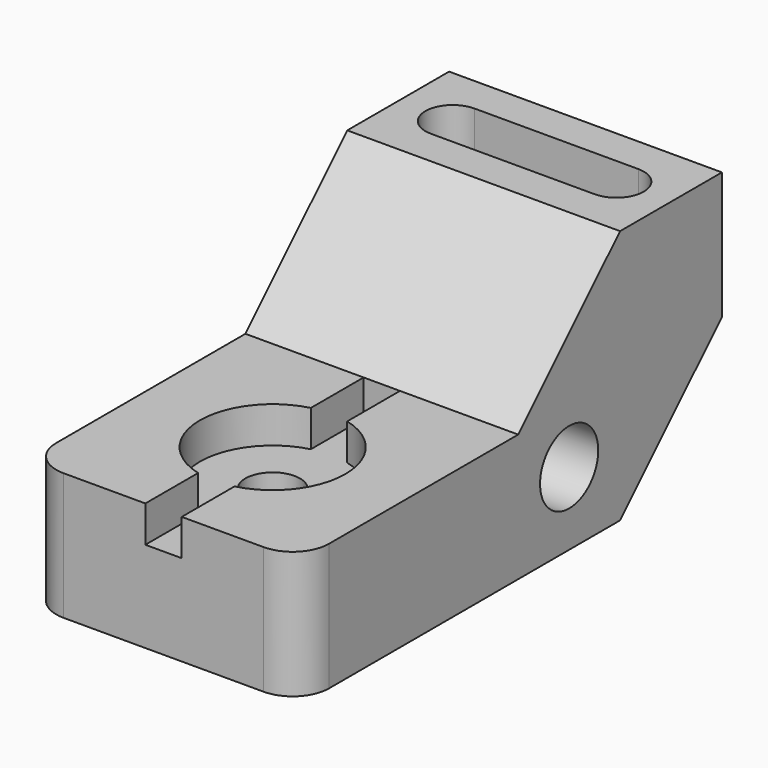
from build123d import *

# Parameters (mm, degrees)
F1_DEPTH       = 76.2
F2_R           = 10.16
F3_R           = 10.16
F4_DEPTH       = 76.201
F6_D           = 15.24
F6_CBORE_D     = 40.64
F6_CBORE_DEPTH = 10.16
F7_DEPTH       = 10.16
F8_W           = 45.72
F8_H           = 15.24
F9_DEPTH       = 27.94


with BuildPart() as f1:
    # F0 (on Right) → F1 (new body)
    with BuildSketch(Plane.YZ):
        Polygon((0, 35.56), (0, 0), (111.76, 0), (147.32, 35.56), (147.32, 71.12), (111.76, 71.12), (76.2, 35.56), align=None)
    extrude(amount=F1_DEPTH)

    # F2
    f2_edges = [f1.edges().sort_by_distance(p)[0] for p in [
        (76.2, 0, 17.78),
        (0, 0, 17.78),
    ]]
    fillet(f2_edges, radius=F2_R)

    # F3 (on face) → F4 (cut, through all)
    with BuildSketch(Plane.YZ.offset(76.2)):
        with Locations((93.98, 20.32)):
            Circle(F3_R)
    extrude(amount=-F4_DEPTH, mode=Mode.SUBTRACT)

    # F6 (through all)
    with Locations(Plane.XY.offset(35.56)):
        with Locations((38.1, 38.1)):
            CounterBoreHole(F6_D / 2, F6_CBORE_D / 2, F6_CBORE_DEPTH)

    # F5 (on face) → F7 (cut)
    with BuildSketch(Plane.XY.offset(35.56)):
        with BuildLine():
            Line((38.1, 25.331136), (38.1, 0))
            Line((38.1, 0), (43.18, 0))
            Line((43.18, 0), (43.18, 26.385159))
            ThreePointArc((43.18, 26.385159), (40.694097, 25.597418), (38.1, 25.331136))
        make_face()
        with BuildLine():
            Line((33.02, 0), (38.1, 0))
            Line((38.1, 0), (38.1, 25.331136))
            ThreePointArc((38.1, 25.331136), (35.505903, 25.597418), (33.02, 26.385159))
            Line((33.02, 26.385159), (33.02, 0))
        make_face()
        with BuildLine():
            Line((38.1, 76.2), (38.1, 50.868864))
            ThreePointArc((38.1, 50.868864), (40.694097, 50.602582), (43.18, 49.814841))
            Line((43.18, 49.814841), (43.18, 76.2))
            Line((43.18, 76.2), (38.1, 76.2))
        make_face()
        with BuildLine():
            ThreePointArc((33.02, 49.814841), (35.505903, 50.602582), (38.1, 50.868864))
            Line((38.1, 50.868864), (38.1, 76.2))
            Line((38.1, 76.2), (33.02, 76.2))
            Line((33.02, 76.2), (33.02, 49.814841))
        make_face()
    extrude(amount=-F7_DEPTH, mode=Mode.SUBTRACT)

    # F8 (on face) → F9 (cut)
    with BuildSketch(Plane.XY.offset(71.12)):
        with Locations((38.1, 129.54)):
            Rectangle(F8_W, F8_H)
        with BuildLine():
            Line((15.24, 121.92), (15.24, 137.16))
            ThreePointArc((15.24, 137.16), (7.62, 129.54), (15.24, 121.92))
        make_face()
        with BuildLine():
            ThreePointArc((60.96, 121.92), (68.58, 129.54), (60.96, 137.16))
            Line((60.96, 137.16), (60.96, 121.92))
        make_face()
    extrude(amount=-F9_DEPTH, mode=Mode.SUBTRACT)


solid = f1.part
